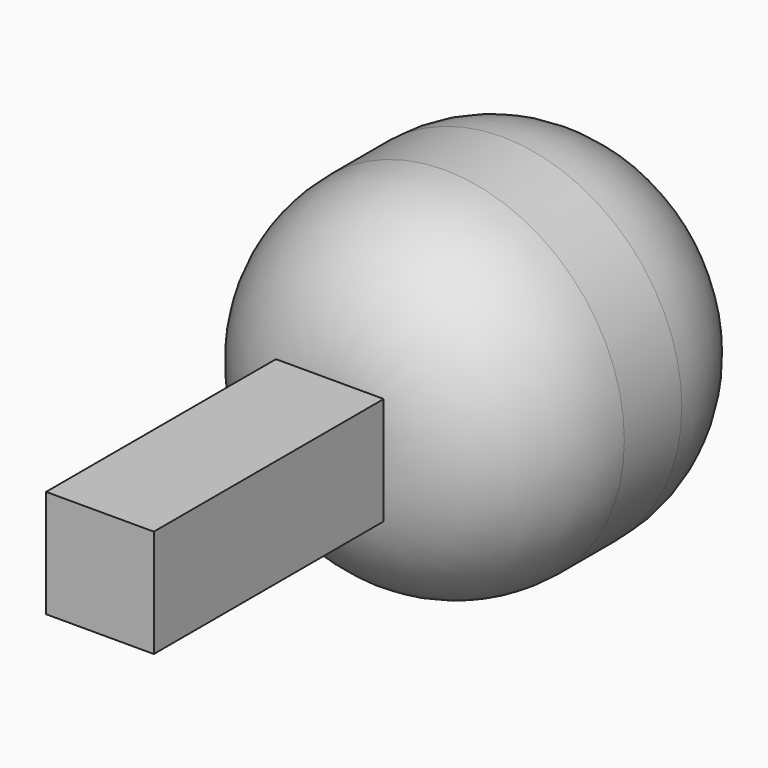
from build123d import *

# Parameters (mm, degrees)
F0_R     = 25
F1_DEPTH = 50
F3_R     = 20
F4_R     = 20
F5_W     = 15
F5_H     = 15
F6_DEPTH = 40


with BuildPart() as f1:
    # F0 (on Front) → F1 (new body)
    with BuildSketch(Plane.XZ):
        Circle(F0_R)
    extrude(amount=F1_DEPTH)

    # F3
    f3_edges = [f1.edges().sort_by_distance(p)[0] for p in [
        (-25, -50, 0),
    ]]
    fillet(f3_edges, radius=F3_R)

    # F4
    f4_edges = [f1.edges().sort_by_distance(p)[0] for p in [
        (-25, 0, 0),
    ]]
    fillet(f4_edges, radius=F4_R)

    # F5 (on face) → F6 (join)
    with BuildSketch(Plane.XZ.offset(50)):
        Rectangle(F5_W, F5_H)
    extrude(amount=F6_DEPTH)


solid = f1.part
